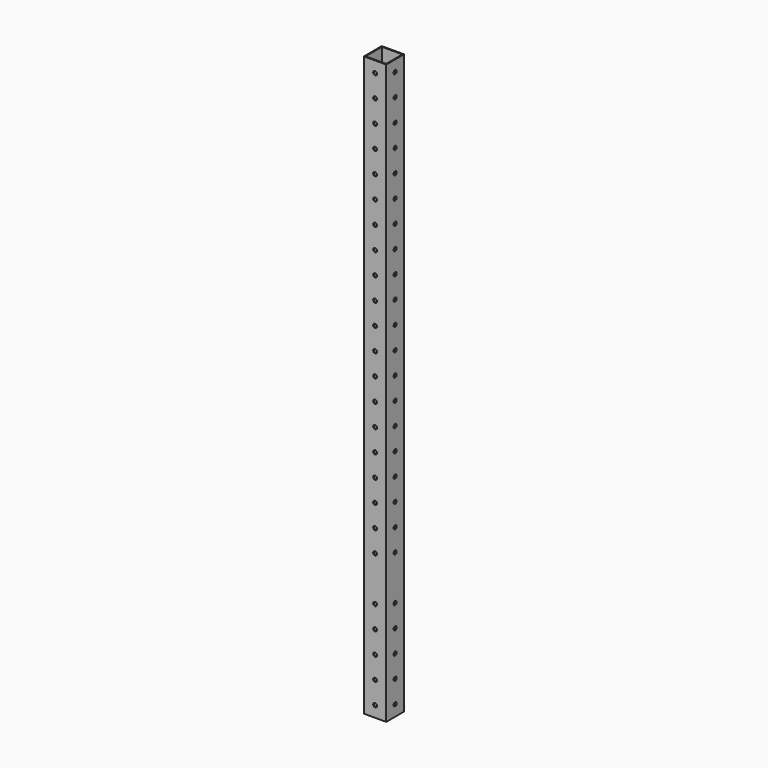
from build123d import *

# Parameters (mm, degrees)
F0_W      = 25.4
F0_H      = 25.4
F0_W_2    = 23.368
F0_H_2    = 23.368
F1_DEPTH  = 508
F2_R      = 2.1844
F3_DEPTH  = 25.4
F4_R      = 2.1844
F5_DEPTH  = 25.4
F6_DEPTH  = 152.4
F7_R      = 2.1844
F8_DEPTH  = 25.4
F9_R      = 2.1844
F10_DEPTH = 25.4


with BuildPart() as f1:
    # F0 (on Top) → F1 (new body)
    with BuildSketch(Plane.XY):
        with Locations((12.7, -12.7)):
            Rectangle(F0_W, F0_H)
        with Locations((12.7, -12.7)):
            Rectangle(F0_W_2, F0_H_2, mode=Mode.SUBTRACT)
    extrude(amount=F1_DEPTH)

    # F2 (on face) → F3 (cut)
    with BuildSketch(Plane.XZ.offset(25.4)):
        with Locations((12.7, 12.7)):
            Circle(F2_R)
        with Locations((12.7, 38.1)):
            Circle(F2_R)
        with Locations((12.7, 241.3)):
            Circle(F2_R)
        with Locations((12.7, 215.9)):
            Circle(F2_R)
        with Locations((12.7, 190.5)):
            Circle(F2_R)
        with Locations((12.7, 165.1)):
            Circle(F2_R)
        with Locations((12.7, 139.7)):
            Circle(F2_R)
        with Locations((12.7, 114.3)):
            Circle(F2_R)
        with Locations((12.7, 88.9)):
            Circle(F2_R)
        with Locations((12.7, 63.5)):
            Circle(F2_R)
        with Locations((12.7, 266.7)):
            Circle(F2_R)
        with Locations((12.7, 292.1)):
            Circle(F2_R)
        with Locations((12.7, 317.5)):
            Circle(F2_R)
        with Locations((12.7, 342.9)):
            Circle(F2_R)
        with Locations((12.7, 368.3)):
            Circle(F2_R)
        with Locations((12.7, 393.7)):
            Circle(F2_R)
        with Locations((12.7, 419.1)):
            Circle(F2_R)
        with Locations((12.7, 444.5)):
            Circle(F2_R)
        with Locations((12.7, 469.9)):
            Circle(F2_R)
        with Locations((12.7, 495.3)):
            Circle(F2_R)
        with Locations((12.7, 520.7)):
            Circle(F2_R)
        with Locations((12.7, 546.1)):
            Circle(F2_R)
        with Locations((12.7, 571.5)):
            Circle(F2_R)
        with Locations((12.7, 596.9)):
            Circle(F2_R)
        with Locations((12.7, 622.3)):
            Circle(F2_R)
    extrude(amount=-F3_DEPTH, mode=Mode.SUBTRACT)

    # F4 (on face) → F5 (cut)
    with BuildSketch(Plane(origin=(0, 0, 0), x_dir=(0, -1, 0), z_dir=(-1, 0, 0))):
        with Locations((12.7, 12.7)):
            Circle(F4_R)
        with Locations((12.7, 38.1)):
            Circle(F4_R)
        with Locations((12.7, 63.5)):
            Circle(F4_R)
        with Locations((12.7, 88.9)):
            Circle(F4_R)
        with Locations((12.7, 114.3)):
            Circle(F4_R)
        with Locations((12.7, 139.7)):
            Circle(F4_R)
        with Locations((12.7, 165.1)):
            Circle(F4_R)
        with Locations((12.7, 190.5)):
            Circle(F4_R)
        with Locations((12.7, 215.9)):
            Circle(F4_R)
        with Locations((12.7, 241.3)):
            Circle(F4_R)
        with Locations((12.7, 266.7)):
            Circle(F4_R)
        with Locations((12.7, 292.1)):
            Circle(F4_R)
        with Locations((12.7, 317.5)):
            Circle(F4_R)
        with Locations((12.7, 342.9)):
            Circle(F4_R)
        with Locations((12.7, 368.3)):
            Circle(F4_R)
        with Locations((12.7, 393.7)):
            Circle(F4_R)
        with Locations((12.7, 419.1)):
            Circle(F4_R)
        with Locations((12.7, 444.5)):
            Circle(F4_R)
        with Locations((12.7, 546.1)):
            Circle(F4_R)
        with Locations((12.7, 520.7)):
            Circle(F4_R)
        with Locations((12.7, 495.3)):
            Circle(F4_R)
        with Locations((12.7, 469.9)):
            Circle(F4_R)
        with Locations((12.7, 571.5)):
            Circle(F4_R)
        with Locations((12.7, 596.9)):
            Circle(F4_R)
        with Locations((12.7, 622.3)):
            Circle(F4_R)
    extrude(amount=-F5_DEPTH, mode=Mode.SUBTRACT)

    # F6 (add): a face of the model
    f6_faces = [f1.faces().sort_by_distance(p)[0] for p in [
        (12.7, -0.3592102448, 0),
    ]]
    extrude(f6_faces, amount=F6_DEPTH)

    # F7 (on face) → F8 (cut)
    with BuildSketch(Plane.XZ.offset(25.4)):
        with Locations((12.7, -38.1)):
            Circle(F7_R)
        with Locations((12.7, -63.5)):
            Circle(F7_R)
        with Locations((12.7, -88.9)):
            Circle(F7_R)
        with Locations((12.7, -114.3)):
            Circle(F7_R)
        with Locations((12.7, -139.7)):
            Circle(F7_R)
    extrude(amount=-F8_DEPTH, mode=Mode.SUBTRACT)

    # F9 (on face) → F10 (cut)
    with BuildSketch(Plane(origin=(0, 0, 0), x_dir=(0, -1, 0), z_dir=(-1, 0, 0))):
        with Locations((12.7, -38.1)):
            Circle(F9_R)
        with Locations((12.7, -63.5)):
            Circle(F9_R)
        with Locations((12.7, -88.9)):
            Circle(F9_R)
        with Locations((12.7, -114.3)):
            Circle(F9_R)
        with Locations((12.7, -139.7)):
            Circle(F9_R)
    extrude(amount=-F10_DEPTH, mode=Mode.SUBTRACT)


solid = f1.part
